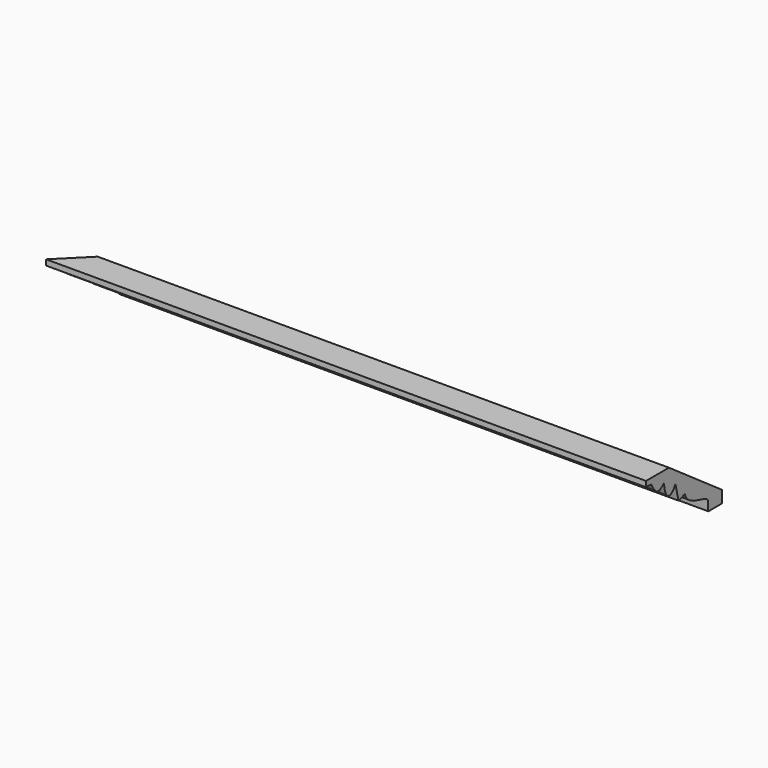
from build123d import *

# Parameters (mm, degrees)
F1_DEPTH      = 228.6
F1_DEPTH_BACK = 177.8
F3_DEPTH      = 36.7586830666


with BuildPart() as f1:
    # F0 (on Right) → F1 (new body, two sides)
    with BuildSketch(Plane.YZ) as f1_sk:
        with BuildLine():
            Line((0, 0), (0, 7.62))
            Line((0, 7.62), (-41.6129238499, 36.7576829666))
            Line((-41.6129238499, 36.7576829666), (-59.6469238499, 36.7576829666))
            Line((-59.6469238499, 36.7576829666), (-59.6469238499, 33.2651829666))
            Line((-59.6469238499, 33.2651829666), (-55.5780977011, 33.2651829666))
            add(Edge.make_bspline(
                [(-45.5138377747, 29.7663135135), (-49.731985016, 25.5481662722), (-53.3485413037, 29.721554147), (-52.9368298251, 28.3284333935), (-55.5780977011, 33.2651829666)],
                knots=[0, 0, 0, 0, 0.5239815067, 1, 1, 1, 1], degree=3))
            add(Edge.make_bspline(
                [(-45.5138377747, 29.7663135135), (-44.8237836263, 19.0704984271), (-39.6483905515, 19.0704984271), (-36.5431561968, 25.7985124045)],
                knots=[0, 0, 0, 0, 9.8090047208, 9.8090047208, 9.8090047208, 9.8090047208], degree=3))
            Line((-36.5431561968, 25.7985124045), (-34.1559106391, 15.4807388001))
            Line((-34.1559106391, 15.4807388001), (-29.0110725909, 17.0878581703))
            add(Edge.make_bspline(
                [(-10.668, 0), (-11.1579841904, 2.7979269635), (-10.5047915864, 6.0449118409), (-12.8343535403, 8.8698779258), (-27.9113658404, 10.4050231017), (-29.0110725909, 17.0878581703)],
                knots=[0, 0, 0, 0, 0.289167973, 0.4952865565, 1, 1, 1, 1], degree=3))
            Line((-10.668, 0), (0, 0))
        make_face()
    extrude(amount=F1_DEPTH)
    extrude(f1_sk.sketch, amount=-F1_DEPTH_BACK)

    # F2 (on Top) → F3 (cut, through all)
    with BuildSketch(Plane.XY):
        Polygon((-192.6036879301, -103.7036879301), (-88.9, 0), (-192.6036879301, 0), align=None)
    extrude(amount=F3_DEPTH, mode=Mode.SUBTRACT)


solid = f1.part
